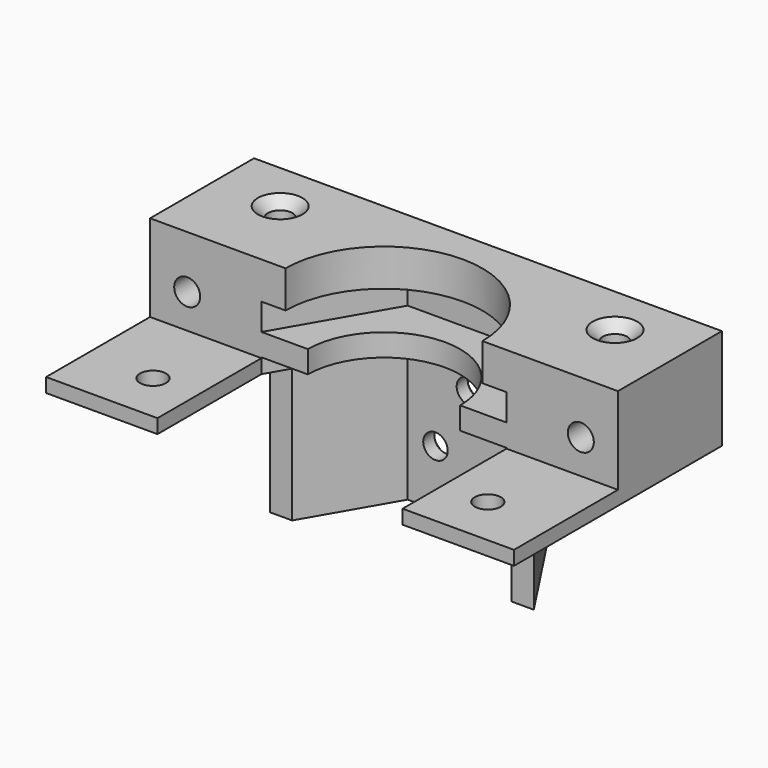
from build123d import *

# Parameters (mm, degrees)
PAD_DEPTH           = 2
PAD001_DEPTH        = 3
PAD002_DEPTH        = 3.6
PAD003_DEPTH        = 5
SKETCH004_W         = 63
SKETCH004_H         = 17.5
POCKET_DEPTH        = 11.7
PAD004_DEPTH        = 18
HOLE_D              = 3.3
HOLE_DEPTH          = 24.00858
HOLE_CSINK_D        = 6
HOLE_CSINK_ANGLE    = 90
HOLE_TIPS_R         = 1.65
SKETCH010_R         = 1.75
POCKET001_DEPTH     = 5
HOLE001_D           = 3.3
HOLE001_DEPTH       = 24.00858
HOLE001_CSINK_D     = 6
HOLE001_CSINK_ANGLE = 90
HOLE001_TIPS_R      = 1.65
SKETCH012_R         = 1.75
POCKET002_DEPTH     = 5
SKETCH013_R         = 1.75
POCKET003_DEPTH     = 35.001
POCKET004_DEPTH     = 2.5


with BuildPart() as part:
    # Sketch → Pad (new body)
    with BuildSketch(Plane.XY):
        Polygon((-31.5, 17.5), (31.5, 17.5), (31.5, -17.5), (16.5, -17.5), (16.5, -3e-05), (8.25, 14.289419), (-8.25, 14.289419), (-16.5, 0), (-16.5, -17.5), (-31.5, -17.5), align=None)
    extrude(amount=PAD_DEPTH)

    # Sketch001 (on Face12 of Pad) → Pad001 (join)
    with BuildSketch(Plane.XY.offset(2)):
        with BuildLine():
            ThreePointArc((10.25, -3e-05), (1.5e-05, 10.25), (-10.25, 0))
            Line((-16.5, 0), (-10.25, 0))
            Line((-16.5, -17.5), (-16.5, 0))
            Line((-16.5, -17.5), (-31.5, -17.5))
            Line((-31.5, -17.5), (-31.5, 17.5))
            Line((-31.5, 17.5), (31.5, 17.5))
            Line((31.5, 17.5), (31.5, -17.5))
            Line((31.5, -17.5), (16.5, -17.5))
            Line((16.5, -17.5), (16.5, -3e-05))
            Line((10.25, -3e-05), (16.5, -3e-05))
        make_face()
    extrude(amount=PAD001_DEPTH)

    # Sketch002 (on Face20 of Pad001) → Pad002 (join)
    with BuildSketch(Plane.XY.offset(5)):
        Polygon((16.5, 0), (8.25, 14.289419), (-8.25, 14.289419), (-16.5, 0), (-16.5, -17.5), (-31.5, -17.5), (-31.5, 17.5), (31.5, 17.5), (31.5, -17.5), (16.5, -17.5), align=None)
    extrude(amount=PAD002_DEPTH)

    # Sketch003 (on Face30 of Pad002) → Pad003 (join)
    with BuildSketch(Plane.XY.offset(8.6)):
        with BuildLine():
            Line((-31.5, 17.5), (31.5, 17.5))
            Line((31.5, 17.5), (31.5, -17.5))
            Line((31.5, -17.5), (16.5, -17.5))
            Line((16.5, -17.5), (16.5, 0))
            Line((16.5, 0), (13.25, 0))
            ThreePointArc((13.25, 0), (0, 13.25), (-13.25, 0))
            Line((-16.5, 0), (-13.25, 0))
            Line((-16.5, -17.5), (-16.5, 0))
            Line((-16.5, -17.5), (-31.5, -17.5))
            Line((-31.5, -17.5), (-31.5, 17.5))
        make_face()
    extrude(amount=PAD003_DEPTH)

    # Sketch004 (on Face40 of Pad003) → Pocket (cut)
    with BuildSketch(Plane.XY.offset(13.6)):
        with Locations((0, -8.75)):
            Rectangle(SKETCH004_W, SKETCH004_H)
    extrude(amount=-POCKET_DEPTH, mode=Mode.SUBTRACT)

    # Sketch008 (on Face1 of Pocket) → Pad004 (join)
    with BuildSketch(Plane(origin=(0, 0, 0), x_dir=(1, 0, 0), z_dir=(0, 0, -1))):
        Polygon((-8.25, -14.289419), (8.25, -14.289419), (14.767953, -2.99997), (17.767953, -3), (8.25, -17.5), (-8.25, -17.5), (-17.767949, -3), (-14.767949, -3), align=None)
    extrude(amount=PAD004_DEPTH)

    # Hole
    with Locations(Plane(origin=(0, 17.5, 0), x_dir=(-1, 0, 0), z_dir=(0, 1, 0))):
        with Locations((0, -2.45), (-4.5, -10.45), (4.5, -10.45)):
            CounterSinkHole(HOLE_D / 2, HOLE_CSINK_D / 2, depth=HOLE_DEPTH, counter_sink_angle=HOLE_CSINK_ANGLE)

    # Hole tips → Hole tip 1 section 0
    with BuildSketch(Plane(origin=(0, -6.50858, 0), x_dir=(-1, 0, 0), z_dir=(0, 1, 0)), mode=Mode.PRIVATE) as hole_tip_1_s0:
        with Locations((0, -2.45)):
            Circle(HOLE_TIPS_R)
    loft([hole_tip_1_s0.sketch, Vertex(0, -7.5, -2.45)], mode=Mode.SUBTRACT)

    # Hole tips → Hole tip 2 section 0
    with BuildSketch(Plane(origin=(0, -6.50858, 0), x_dir=(-1, 0, 0), z_dir=(0, 1, 0)), mode=Mode.PRIVATE) as hole_tip_2_s0:
        with Locations((-4.5, -10.45)):
            Circle(HOLE_TIPS_R)
    loft([hole_tip_2_s0.sketch, Vertex(4.5, -7.5, -10.45)], mode=Mode.SUBTRACT)

    # Hole tips → Hole tip 3 section 0
    with BuildSketch(Plane(origin=(0, -6.50858, 0), x_dir=(-1, 0, 0), z_dir=(0, 1, 0)), mode=Mode.PRIVATE) as hole_tip_3_s0:
        with Locations((4.5, -10.45)):
            Circle(HOLE_TIPS_R)
    loft([hole_tip_3_s0.sketch, Vertex(-4.5, -7.5, -10.45)], mode=Mode.SUBTRACT)

    # Sketch010 → Pocket001 (cut)
    with BuildSketch(Plane.XY.offset(1.9)):
        with Locations((-22.54, 24.3)):
            Circle(SKETCH010_R)
        with Locations((7.79, 24.3)):
            Circle(SKETCH010_R)
    extrude(amount=-POCKET001_DEPTH, mode=Mode.SUBTRACT)

    # Hole001
    with Locations(Plane.XY.offset(13.6)):
        with Locations((-22.54, 10.7), (22.54, 10.7)):
            CounterSinkHole(HOLE001_D / 2, HOLE001_CSINK_D / 2, depth=HOLE001_DEPTH, counter_sink_angle=HOLE001_CSINK_ANGLE)

    # Hole001 tips → Hole001 tip 1 section 0
    with BuildSketch(Plane.XY.offset(-10.40858), mode=Mode.PRIVATE) as hole001_tip_1_s0:
        with Locations((-22.54, 10.7)):
            Circle(HOLE001_TIPS_R)
    loft([hole001_tip_1_s0.sketch, Vertex(-22.54, 10.7, -11.4)], mode=Mode.SUBTRACT)

    # Hole001 tips → Hole001 tip 2 section 0
    with BuildSketch(Plane.XY.offset(-10.40858), mode=Mode.PRIVATE) as hole001_tip_2_s0:
        with Locations((22.54, 10.7)):
            Circle(HOLE001_TIPS_R)
    loft([hole001_tip_2_s0.sketch, Vertex(22.54, 10.7, -11.4)], mode=Mode.SUBTRACT)

    # Sketch012 (on Face6 of Hole001) → Pocket002 (cut)
    with BuildSketch(Plane.XY.offset(1.9)):
        with Locations((-22.54, -10.7)):
            Circle(SKETCH012_R)
        with Locations((22.54, -10.7)):
            Circle(SKETCH012_R)
    extrude(amount=-POCKET002_DEPTH, mode=Mode.SUBTRACT)

    # Sketch013 (on Face43 of Pocket002) → Pocket003 (cut, through all)
    with BuildSketch(Plane(origin=(0, 17.5, 0), x_dir=(-1, 0, 0), z_dir=(0, 1, 0))):
        with Locations((-26.5, 6.5)):
            Circle(SKETCH013_R)
        with Locations((26.5, 6.5)):
            Circle(SKETCH013_R)
    extrude(amount=-POCKET003_DEPTH, mode=Mode.SUBTRACT)

    # Sketch014 (on Face44 of Pocket003) → Pocket004 (cut)
    with BuildSketch(Plane(origin=(0, 17.5, 0), x_dir=(-1, 0, 0), z_dir=(0, 1, 0))):
        Polygon((-26.5, 3.3), (-23.728719, 4.9), (-23.728719, 8.1), (-26.5, 9.7), (-29.271281, 8.1), (-29.271281, 4.9), align=None)
        Polygon((29.271281, 4.9), (29.271281, 8.1), (26.5, 9.7), (23.728719, 8.1), (23.728719, 4.9), (26.5, 3.3), align=None)
    extrude(amount=-POCKET004_DEPTH, mode=Mode.SUBTRACT)


solid = part.part
